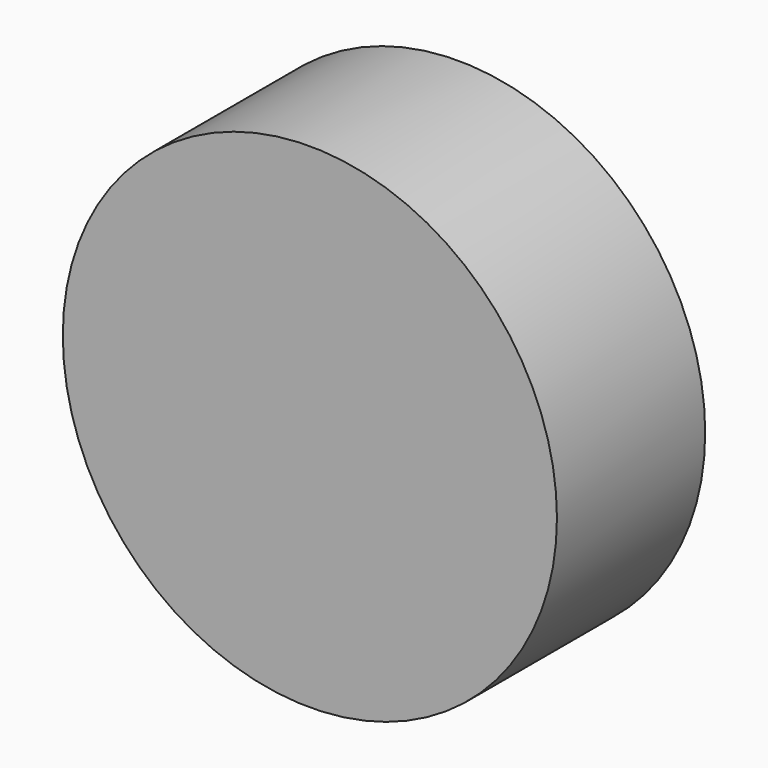
from build123d import *

# Parameters (mm, degrees)
F0_R     = 4
F1_DEPTH = 3
F2_R     = 1
F3_DEPTH = 5


with BuildPart() as f1:
    # F0 (on Front) → F1 (new body)
    with BuildSketch(Plane.XZ):
        Circle(F0_R)
    extrude(amount=F1_DEPTH)

    # F2 (on Top) → F3 (cut)
    with BuildSketch(Plane.XY):
        with Locations((0, -1.485766)):
            Circle(F2_R)
    extrude(amount=-F3_DEPTH, mode=Mode.SUBTRACT)


solid = f1.part
